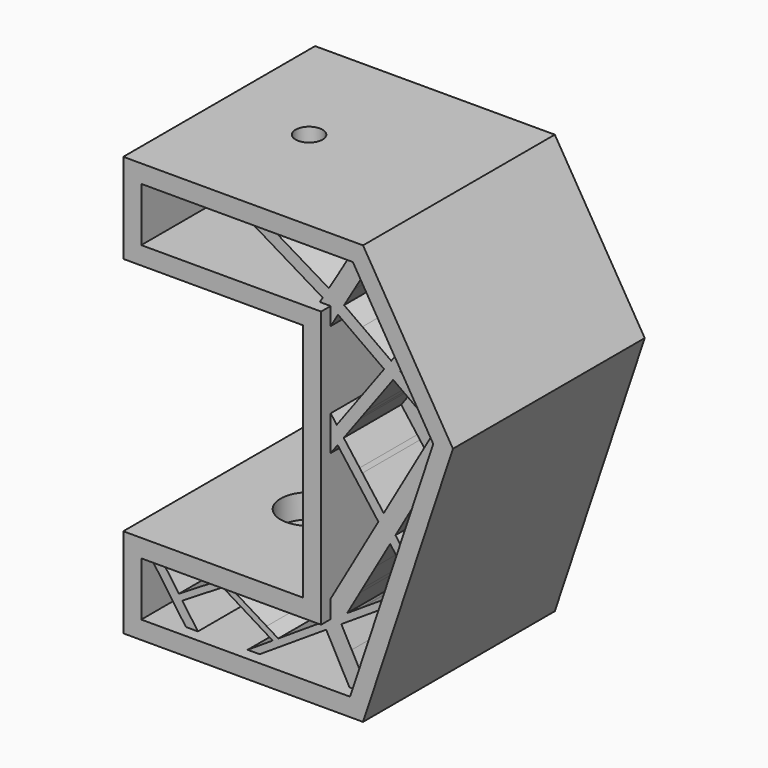
from build123d import *

# Parameters (mm, degrees)
F1_DEPTH        = 20
F1_DEPTH_BACK   = 20
F2_T            = -3
F3_DEPTH        = 6
F3_DEPTH_BACK   = 6
F4_W            = 4.15
F4_H            = 5
F5_DEPTH        = 15
F6_DEPTH        = 12
F6_DEPTH_BACK   = 24
F8_D            = 4.5
F8_DEPTH        = 20
F8_CBORE_D      = 9.5
F8_CBORE_DEPTH  = 10
F8_TIP          = 1.3519363928
F10_D           = 5.5
F10_DEPTH       = 20
F10_CBORE_D     = 9.5
F10_CBORE_DEPTH = 4
F10_TIP         = 1.6523667023


with BuildPart() as f1:
    # F0 (on Front) → F1 (new body, two sides)
    with BuildSketch(Plane.XZ) as f1_sk:
        Polygon((25, 11.8595977128), (0, 21.8595977128), (0, -18.1404022872), align=None)
        Polygon((-12.8571428571, 28.2881691413), (0, 21.8595977128), (0, 33.1095977128), align=None)
        Polygon((0, 33.1095977128), (0, 21.8595977128), (10, 36.8595977128), align=None)
        Polygon((10, 36.8595977128), (0, 21.8595977128), (25, 11.8595977128), align=None)
        Polygon((-30, 21.8595977128), (0, 21.8595977128), (-12.8571428571, 28.2881691413), align=None)
        Polygon((-30, 36.8595977128), (-30, 21.8595977128), (-12.8571428571, 28.2881691413), align=None)
        Polygon((-12.8571428571, -24.5689737158), (0, -18.1404022872), (-30, -18.1404022872), align=None)
        Polygon((10, -33.1404022872), (0, -18.1404022872), (0, -29.3904022872), align=None)
        Polygon((25, 11.8595977128), (0, -18.1404022872), (10, -33.1404022872), align=None)
        Polygon((0, -29.3904022872), (0, -18.1404022872), (-12.8571428571, -24.5689737158), align=None)
        Polygon((-12.8571428571, 28.2881691413), (0, 33.1095977128), (0, 36.8595977128), (-30, 36.8595977128), align=None)
        Polygon((0, 36.8595977128), (0, 33.1095977128), (10, 36.8595977128), align=None)
        Polygon((-12.8571428571, -24.5689737158), (-30, -18.1404022872), (-30, -33.1404022872), align=None)
        Polygon((10, -33.1404022872), (0, -29.3904022872), (0, -33.1404022872), align=None)
        Polygon((0, -33.1404022872), (0, -29.3904022872), (-12.8571428571, -24.5689737158), (-30, -33.1404022872), align=None)
    extrude(amount=F1_DEPTH)
    extrude(f1_sk.sketch, amount=-F1_DEPTH_BACK)

    # F2
    f2_openings = [f1.faces().sort_by_distance(p)[0] for p in [
        (16.736639, -20, 23.901581),
        (16.736639, 20, 23.901581),
    ]]
    offset(amount=F2_T, openings=f2_openings, kind=Kind.INTERSECTION)

    # F0 (on Front) → F3 (join, two sides)
    with BuildSketch(Plane.XZ) as f3_sk:
        Polygon((25, 11.8595977128), (0, 21.8595977128), (0, -18.1404022872), align=None)
        Polygon((-12.8571428571, 28.2881691413), (0, 21.8595977128), (0, 33.1095977128), align=None)
        Polygon((0, 33.1095977128), (0, 21.8595977128), (10, 36.8595977128), align=None)
        Polygon((10, 36.8595977128), (0, 21.8595977128), (25, 11.8595977128), align=None)
        Polygon((-30, 21.8595977128), (0, 21.8595977128), (-12.8571428571, 28.2881691413), align=None)
        Polygon((-30, 36.8595977128), (-30, 21.8595977128), (-12.8571428571, 28.2881691413), align=None)
        Polygon((-12.8571428571, -24.5689737158), (0, -18.1404022872), (-30, -18.1404022872), align=None)
        Polygon((10, -33.1404022872), (0, -18.1404022872), (0, -29.3904022872), align=None)
        Polygon((25, 11.8595977128), (0, -18.1404022872), (10, -33.1404022872), align=None)
        Polygon((0, -29.3904022872), (0, -18.1404022872), (-12.8571428571, -24.5689737158), align=None)
        Polygon((-12.8571428571, 28.2881691413), (0, 33.1095977128), (0, 36.8595977128), (-30, 36.8595977128), align=None)
        Polygon((0, 36.8595977128), (0, 33.1095977128), (10, 36.8595977128), align=None)
        Polygon((-12.8571428571, -24.5689737158), (-30, -18.1404022872), (-30, -33.1404022872), align=None)
        Polygon((10, -33.1404022872), (0, -29.3904022872), (0, -33.1404022872), align=None)
        Polygon((0, -33.1404022872), (0, -29.3904022872), (-12.8571428571, -24.5689737158), (-30, -33.1404022872), align=None)
    extrude(amount=F3_DEPTH)
    extrude(f3_sk.sketch, amount=-F3_DEPTH_BACK)

    # F4 (on face) → F5 (cut)
    with BuildSketch(Plane.XZ.offset(6)):
        with Locations((-17.075, -27.6404022872)):
            Rectangle(F4_W, F4_H)
        with Locations((-12.925, -27.6404022872)):
            Rectangle(F4_W, F4_H)
    extrude(amount=-F5_DEPTH, mode=Mode.SUBTRACT)

    # F4 (on face) → F6 (join, two sides)
    with BuildSketch(Plane.XZ.offset(6)) as f6_sk:
        Polygon((-25.5, -21.1404022872), (-27, -21.1404022872), (-27, -21.8490637046), (-21.15, -30.1404022872), (-19.15, -30.1404022872), (-21.7484950377, -26.4574959346), (-22.325, -25.6404022872), align=None)
        Polygon((-15.9532759219, -21.7260325464), (-22.325, -25.6404022872), (-21.7484950377, -26.4574959346), (-15, -22.3116628056), align=None)
        Polygon((-15, -22.3116628056), (-15, -21.1404022872), (-15.9532759219, -21.7260325464), align=None)
        Polygon((-14.0467240781, -21.7260325464), (-15, -21.1404022872), (-15, -22.3116628056), align=None)
        Polygon((-15, -21.1404022872), (-16.9065518437, -21.1404022872), (-15.9532759219, -21.7260325464), align=None)
        Polygon((-13.0934481563, -21.1404022872), (-15, -21.1404022872), (-14.0467240781, -21.7260325464), align=None)
        Polygon((-14.0467240781, -21.7260325464), (-15, -22.3116628056), (-6.6738857205, -27.4266818168), (-5.7473684211, -26.8246128136), (-7.675, -25.6404022872), align=None)
        Polygon((-5.7473684211, -26.8246128136), (-6.6738857205, -27.4266818168), (-10.85, -30.1404022872), (-8.85, -30.1404022872), (2.2557171061, -22.9236908104), (1.737973718, -21.960491568), align=None)
        Polygon((3.8700445992, -25.9269527624), (6.1348778096, -30.1404022872), (7.8377223398, -30.1404022872), (5.191172062, -25.2168141134), align=None)
        Polygon((6.5122995248, -24.5066754645), (5.191172062, -25.2168141134), (7.8377223398, -30.1404022872), (7.8377223398, -26.9724650442), align=None)
        Polygon((7.8377223398, -26.9724650442), (7.8377223398, -30.1404022872), (8.4895103682, -28.1850382022), align=None)
        Polygon((4.7797696701, -21.2835122489), (3.5177433881, -22.1036015296), (5.191172062, -25.2168141134), (6.5122995248, -24.5066754645), align=None)
        Polygon((5.191172062, -25.2168141134), (3.5177433881, -22.1036015296), (2.2557171061, -22.9236908104), (3.8700445992, -25.9269527624), align=None)
        Polygon((3, -21.1404022872), (1.2971554698, -21.1404022872), (1.737973718, -21.960491568), align=None)
        Polygon((3.5177433881, -22.1036015296), (3, -21.1404022872), (1.737973718, -21.960491568), (2.2557171061, -22.9236908104), align=None)
        Polygon((5, -21.1404022872), (3, -21.1404022872), (3.5177433881, -22.1036015296), (4.7797696701, -21.2835122489), align=None)
        Polygon((5.756249278, -19.3493377745), (3, -21.1404022872), (5, -21.1404022872), (7.8377223398, -19.2963949906), (7.8377223398, -17.9967560014), align=None)
        Polygon((7.8377223398, -12.7044068527), (3, -21.1404022872), (5.756249278, -19.3493377745), (7.8377223398, -15.7196757118), align=None)
        Polygon((3, -18.1251334281), (3, -21.1404022872), (7.8377223398, -12.7044068527), (7.8377223398, -9.6891379935), align=None)
        Polygon((7.8377223398, -17.9967560014), (7.8377223398, -19.2963949906), (8.3014288631, -18.995069452), (8.3014288631, -17.6954304629), align=None)
        Polygon((8.3014288631, -17.6954304629), (8.3014288631, -18.995069452), (12.4518391158, -16.2980519593), (13.0048345075, -14.6390657842), align=None)
        Polygon((8.3014288631, -11.8957977928), (7.8377223398, -12.7044068527), (7.8377223398, -15.7196757118), (8.3014288631, -14.9110666519), align=None)
        Polygon((7.8377223398, -9.6891379935), (7.8377223398, -12.7044068527), (8.3014288631, -11.8957977928), (8.3014288631, -9.5451432842), (8.0146180338, -9.3806681885), align=None)
        Polygon((8.3014288631, -9.5451432842), (8.3014288631, -11.8957977928), (9.3158414595, -10.1268703035), align=None)
        Polygon((9.3158414595, -10.1268703035), (8.3014288631, -11.8957977928), (8.3014288631, -14.9110666519), (10.6170648852, -10.8730724185), align=None)
        Polygon((11.9426788773, -5.5462046706), (9.3158414595, -10.1268703035), (10.6170648852, -10.8730724185), (12.9232091004, -6.8516299494), align=None)
        Polygon((8.3014288631, -8.8805289337), (8.3014288631, -9.5451432842), (9.3158414595, -10.1268703035), (11.9426788773, -5.5462046706), (10.9621486542, -4.2407793917), align=None)
        Polygon((8.3014288631, -8.8805289337), (8.0146180338, -9.3806681885), (8.3014288631, -9.5451432842), align=None)
        Polygon((12.9232091004, -6.8516299494), (14.7776699333, -9.3205595069), (15.4101254653, -7.4231929108), (13.8140247645, -5.2982301577), align=None)
        Polygon((12.8334945414, -3.9928048788), (11.9426788773, -5.5462046706), (12.9232091004, -6.8516299494), (13.8140247645, -5.2982301577), align=None)
        Polygon((10.9621486542, -4.2407793917), (11.9426788773, -5.5462046706), (12.8334945414, -3.9928048788), (11.8529643183, -2.6873795999), align=None)
        Polygon((8.3014288631, 2.0409439669), (8.3014288631, -0.698439958), (10.9621486542, -4.2407793917), (11.8529643183, -2.6873795999), align=None)
        Polygon((12.8334945414, -3.9928048788), (21.7176175267, 11.4992832734), (19.9884755857, 11.4992832734), (11.8529643183, -2.6873795999), align=None)
        Polygon((19.3173177628, 4.2983839818), (21.7176175267, 11.4992832734), (12.8334945414, -3.9928048788), (13.8140247645, -5.2982301577), align=None)
        Polygon((7.8377223398, 2.6582979283), (7.8377223398, -0.0810859966), (8.3014288631, -0.698439958), (8.3014288631, 2.0409439669), align=None)
        Polygon((5.1755095967, 6.2026249982), (4.1572476974, 4.8189002794), (7.8377223398, -0.0810859966), (7.8377223398, 2.6582979283), align=None)
        Polygon((3, 6.3595977128), (3, 3.2463065825), (4.1572476974, 4.8189002794), align=None)
        Polygon((4.0182618993, 7.7433224315), (3, 6.3595977128), (4.1572476974, 4.8189002794), (5.1755095967, 6.2026249982), align=None)
        Polygon((8.3014288631, 13.5637542935), (4.0182618993, 7.7433224315), (5.1755095967, 6.2026249982), (7.8377223398, 9.8203284416), (7.8377223398, 11.4992832734), (8.3014288631, 11.4992832734), align=None)
        Polygon((3, 9.0989816377), (3, 6.3595977128), (4.0182618993, 7.7433224315), align=None)
        Polygon((7.8377223398, 11.4992832734), (7.8377223398, 9.8203284416), (8.3014288631, 10.4504631633), (8.3014288631, 11.4992832734), align=None)
        Polygon((9.0732395728, 11.4992832734), (8.3014288631, 11.4992832734), (8.3014288631, 10.4504631633), align=None)
        Polygon((11.9255934071, 18.488662186), (8.3014288631, 13.5637542935), (8.3014288631, 11.4992832734), (9.0732395728, 11.4992832734), (13.427645882, 17.4165228851), align=None)
        Polygon((19.9884755857, 11.4992832734), (21.7176175267, 11.4992832734), (20.4906903692, 12.3750428403), align=None)
        Polygon((20.4906903692, 12.3750428403), (21.7176175267, 11.4992832734), (20.8334941258, 12.9728222749), align=None)
        Polygon((13.427645882, 17.4165228851), (20.4906903692, 12.3750428403), (20.8334941258, 12.9728222749), (19.1388951728, 15.7971538633), (14.6131686681, 19.0275398396), align=None)
        Polygon((13.1111161932, 20.0996791405), (11.9255934071, 18.488662186), (13.427645882, 17.4165228851), (14.6131686681, 19.0275398396), align=None)
        Polygon((15.0095231949, 22.6794404931), (13.1111161932, 20.0996791405), (14.6131686681, 19.0275398396), (16.0385147058, 20.9644546416), align=None)
        Polygon((8.3014288631, 23.532751485), (8.3014288631, 21.0755286939), (11.9255934071, 18.488662186), (13.1111161932, 20.0996791405), align=None)
        Polygon((5.2445751225, 25.7146812692), (4.2255887725, 23.9847934622), (8.3014288631, 21.0755286939), (8.3014288631, 23.532751485), align=None)
        Polygon((8.3014288631, 30.9041659112), (8.3014288631, 33.8595977128), (5.6507144315, 29.3595977128), (6.9431566829, 28.59828764), align=None)
        Polygon((5.6507144315, 29.3595977128), (8.3014288631, 33.8595977128), (6.5605387013, 33.8595977128), (4.3582721802, 30.1209077856), align=None)
        Polygon((3, 27.8571208185), (3, 27.1846123056), (4.0119073845, 26.5774678749), (5.6507144315, 29.3595977128), (4.3582721802, 30.1209077856), align=None)
        Polygon((4.0119073845, 26.5774678749), (4.1619342871, 26.4874517334), (5.2445751225, 25.7146812692), (6.9431566829, 28.59828764), (5.6507144315, 29.3595977128), align=None)
        Polygon((4.1619342871, 26.4874517334), (3, 24.8595977128), (4.2255887725, 23.9847934622), (5.2445751225, 25.7146812692), align=None)
        Polygon((1.6775633357, 25.6530597113), (3, 24.8595977128), (3, 27.1846123056), (2.7033050678, 27.3626292649), align=None)
        Polygon((3, 24.8595977128), (3, 21.9041659112), (4.2255887725, 23.9847934622), align=None)
        Polygon((3, 27.1846123056), (3, 24.8595977128), (4.0119073845, 26.5774678749), align=None)
        Polygon((1.2014861365, 24.8595977128), (3, 24.8595977128), (1.6775633357, 25.6530597113), align=None)
        Polygon((2.7033050678, 27.3626292649), (3, 27.1846123056), (3, 27.8571208185), align=None)
        Polygon((-12, 33.8595977128), (1.6775633357, 25.6530597113), (2.7033050678, 27.3626292649), (-8.1249756785, 33.8595977128), align=None)
        Polygon((4.0119073845, 26.5774678749), (3, 24.8595977128), (4.1619342871, 26.4874517334), align=None)
        Polygon((9.179891636, 32.3954930912), (8.3014288631, 33.8595977128), (8.3014288631, 30.9041659112), align=None)
    extrude(amount=F6_DEPTH)
    extrude(f6_sk.sketch, amount=-F6_DEPTH_BACK)

    # F8
    with Locations(Plane(origin=(0, 0, 21.8595977128), x_dir=(1, 0, 0), z_dir=(0, 0, -1))):
        with Locations((-15, 0)):
            CounterBoreHole(F8_D / 2, F8_CBORE_D / 2, F8_CBORE_DEPTH, depth=F8_DEPTH)
            with Locations((0, 0, -(F8_DEPTH + F8_TIP / 2))):  # 118° drill point
                Cone(0, F8_D / 2, F8_TIP, mode=Mode.SUBTRACT)

    # F10
    with Locations(Plane.XY.offset(-18.1404022872)):
        with Locations((-15, 0)):
            CounterBoreHole(F10_D / 2, F10_CBORE_D / 2, F10_CBORE_DEPTH, depth=F10_DEPTH)
            with Locations((0, 0, -(F10_DEPTH + F10_TIP / 2))):  # 118° drill point
                Cone(0, F10_D / 2, F10_TIP, mode=Mode.SUBTRACT)


solid = f1.part
